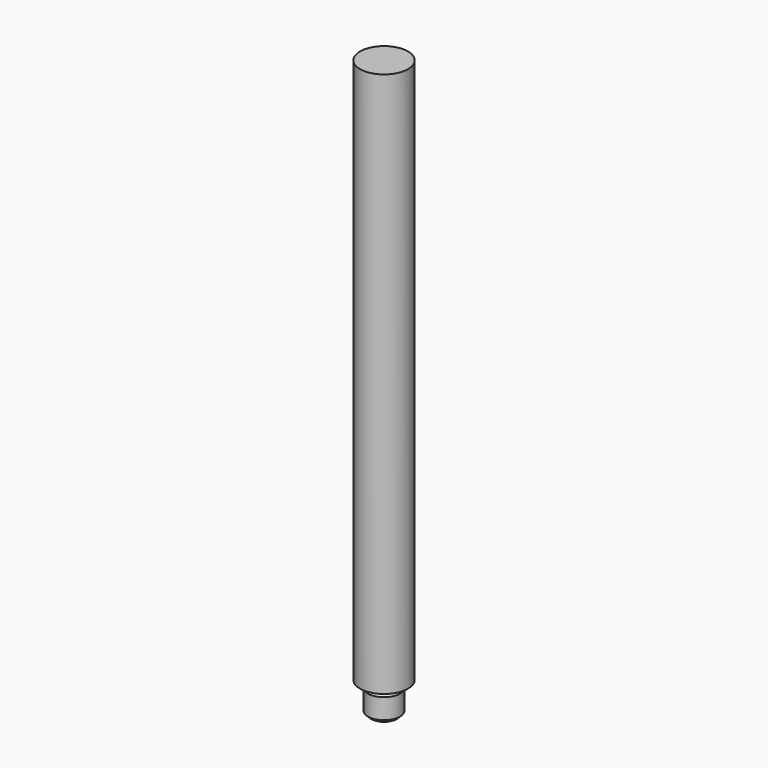
from build123d import *

# Parameters (mm, degrees)
F0_R     = 7.5
F1_DEPTH = 170.5
F2_R     = 5
F3_DEPTH = 9.5
F4_SIZE  = 1


with BuildPart() as f1:
    # F0 (on Top) → F1 (new body)
    with BuildSketch(Plane.XY):
        Circle(F0_R)
    extrude(amount=F1_DEPTH)

    # F2 (on face) → F3 (join)
    with BuildSketch(Plane(origin=(0, 0, 0), x_dir=(1, 0, 0), z_dir=(0, 0, -1))):
        Circle(F2_R)
    extrude(amount=F3_DEPTH)

    # F4
    f4_edges = [f1.edges().sort_by_distance(p)[0] for p in [
        (-5, 0, -9.5),
    ]]
    chamfer(f4_edges, length=F4_SIZE)

    # F5 (on Front) → F6 (revolve, cut)
    with BuildSketch(Plane.XZ):
        Polygon((4.399378, -1.402452), (5.027703, -2.219274), (5.142896, -2.219274), (5.142896, 0), (4.399378, 0), align=None)
    revolve(axis=Axis((0, 0, 0), (0, 0, 1)), mode=Mode.SUBTRACT)


solid = f1.part
